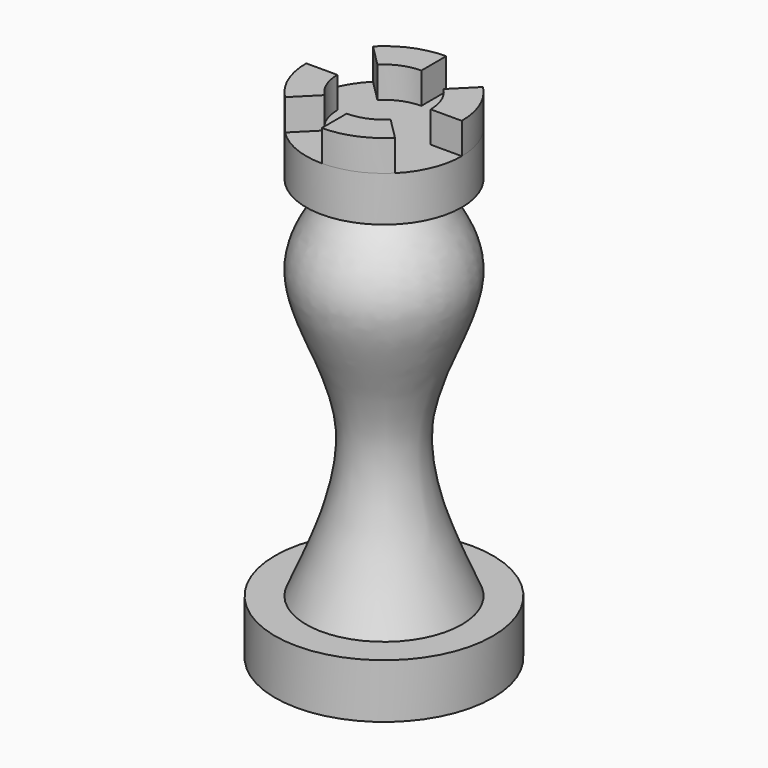
from build123d import *

# Parameters (mm, degrees)
F3_DEPTH = 2.54


with BuildPart() as f1:
    # F0 (on Front) → F1 (revolve)
    with BuildSketch(Plane.XZ):
        with BuildLine():
            Line((0, 34.417), (0, 0))
            Line((0, 0), (6.35, 0))
            Line((6.35, 0), (8.89, 0))
            Line((8.89, 0), (8.89, 4.438594915))
            Line((8.89, 4.438594915), (6.35, 4.438594915))
            add(Edge.make_bspline(
                [(3.175, 34.417), (4.7963969544, 32.3182923304), (8.3804674153, 27.6791346309), (0.879979464, 17.1349718971), (4.4659629978, 8.8116029998), (6.35, 4.438594915)],
                knots=[0, 0, 0, 0, 0.2816524479, 0.6225879579, 1, 1, 1, 1], degree=3))
            Line((3.175, 34.417), (6.35, 34.417))
            Line((6.35, 34.417), (6.35, 38.1))
            Line((6.35, 38.1), (0, 38.1))
            Line((0, 38.1), (0, 34.417))
        make_face()
    revolve(axis=Axis((0, 0, 19.05), (0, 0, 1)))

    # F2 (on face) → F3 (join)
    with BuildSketch(Plane.XY.offset(38.1)):
        with BuildLine():
            Line((0, 3.81), (0, 6.35))
            ThreePointArc((0, 6.35), (-2.4300397955, 5.8666350314), (-4.4901280605, 4.4901280605))
            Line((-4.4901280605, 4.4901280605), (-2.6940768363, 2.6940768363))
            ThreePointArc((-2.6940768363, 2.6940768363), (-1.4580238773, 3.5199810189), (0, 3.81))
        make_face()
        with BuildLine():
            Line((3.81, 0), (6.35, 0))
            ThreePointArc((6.35, 0), (5.8666350314, 2.4300397955), (4.4901280605, 4.4901280605))
            Line((4.4901280605, 4.4901280605), (2.6940768363, 2.6940768363))
            ThreePointArc((2.6940768363, 2.6940768363), (3.5199810189, 1.4580238773), (3.81, 0))
        make_face()
        with BuildLine():
            ThreePointArc((2.6940768363, -2.6940768363), (1.4580238773, -3.5199810189), (0, -3.81))
            Line((0, -3.81), (0, -6.35))
            ThreePointArc((0, -6.35), (2.4300397955, -5.8666350314), (4.4901280605, -4.4901280605))
            Line((4.4901280605, -4.4901280605), (2.6940768363, -2.6940768363))
        make_face()
        with BuildLine():
            ThreePointArc((-2.6940768363, -2.6940768363), (-3.5199810189, -1.4580238773), (-3.81, 0))
            Line((-3.81, 0), (-6.35, 0))
            ThreePointArc((-6.35, 0), (-5.8666350314, -2.4300397955), (-4.4901280605, -4.4901280605))
            Line((-4.4901280605, -4.4901280605), (-2.6940768363, -2.6940768363))
        make_face()
    extrude(amount=F3_DEPTH)


solid = f1.part
